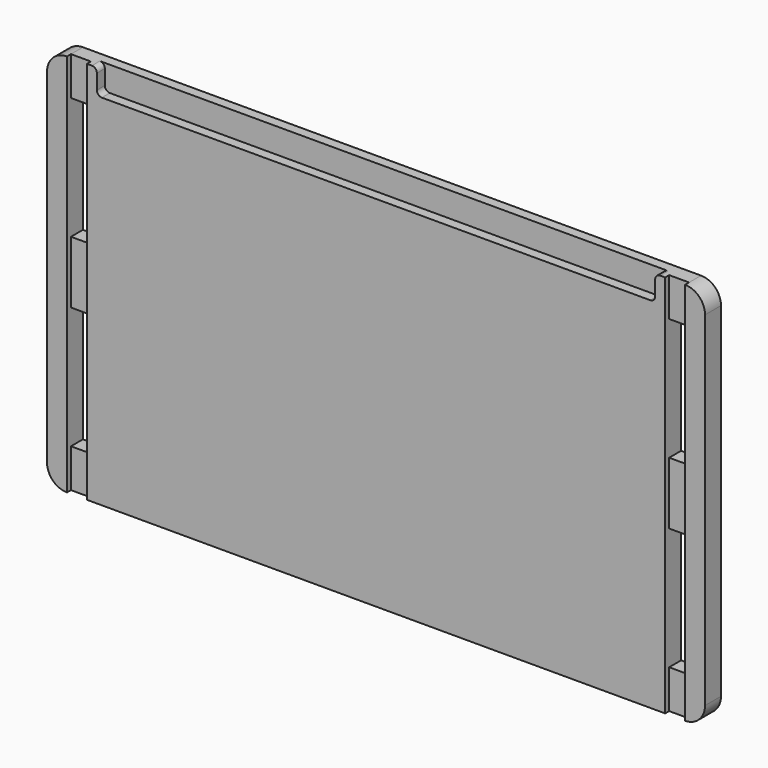
from build123d import *

# Parameters (mm, degrees)
F0_W     = 12.7
F0_H     = 24.60625
F0_H_2   = 39.6875
F1_DEPTH = 12.7
F2_DEPTH = 3.175
F3_DEPTH = 6.35


with BuildPart() as f1:
    # F0 (on Front) → F1 (new body)
    with BuildSketch(Plane.XZ):
        with BuildLine():
            Line((-196.85, 97.63125), (-196.85, 122.2375))
            ThreePointArc((-196.85, 122.2375), (-205.830256, 118.517756), (-209.55, 109.5375))
            Line((-209.55, 109.5375), (-209.55, -109.5375))
            ThreePointArc((-209.55, -109.5375), (-205.830256, -118.517756), (-196.85, -122.2375))
            Line((-196.85, -122.2375), (-196.85, -97.63125))
            Line((-196.85, -97.63125), (-196.85, -19.84375))
            Line((-196.85, -19.84375), (-196.85, 19.84375))
            Line((-196.85, 19.84375), (-196.85, 97.63125))
        make_face()
        with Locations((-190.5, 109.934375)):
            Rectangle(F0_W, F0_H)
        with Locations((-190.5, 0)):
            Rectangle(F0_W, F0_H_2)
        with Locations((-190.5, -109.934375)):
            Rectangle(F0_W, F0_H)
        with BuildLine():
            Line((-180.975, 122.2375), (-184.15, 122.2375))
            Line((-184.15, 122.2375), (-184.15, 97.63125))
            Line((-184.15, 97.63125), (-184.15, 19.84375))
            Line((-184.15, 19.84375), (-184.15, -19.84375))
            Line((-184.15, -19.84375), (-184.15, -97.63125))
            Line((-184.15, -97.63125), (-184.15, -122.2375))
            Line((-184.15, -122.2375), (184.15, -122.2375))
            Line((184.15, -122.2375), (184.15, -97.63125))
            Line((184.15, -97.63125), (184.15, -19.84375))
            Line((184.15, -19.84375), (184.15, 19.84375))
            Line((184.15, 19.84375), (184.15, 97.63125))
            Line((184.15, 97.63125), (184.15, 122.2375))
            Line((184.15, 122.2375), (180.975, 122.2375))
            ThreePointArc((180.975, 122.2375), (178.729936, 121.307564), (177.8, 119.0625))
            Line((177.8, 119.0625), (177.8, 109.5375))
            ThreePointArc((177.8, 109.5375), (176.870064, 107.292436), (174.625, 106.3625))
            Line((174.625, 106.3625), (-174.625, 106.3625))
            ThreePointArc((-174.625, 106.3625), (-176.870064, 107.292436), (-177.8, 109.5375))
            Line((-177.8, 109.5375), (-177.8, 119.0625))
            ThreePointArc((-177.8, 119.0625), (-178.729936, 121.307564), (-180.975, 122.2375))
        make_face()
        with Locations((190.5, -109.934375)):
            Rectangle(F0_W, F0_H)
        with BuildLine():
            ThreePointArc((209.55, 109.5375), (205.830256, 118.517756), (196.85, 122.2375))
            Line((196.85, 122.2375), (196.85, 97.63125))
            Line((196.85, 97.63125), (196.85, 19.84375))
            Line((196.85, 19.84375), (196.85, -19.84375))
            Line((196.85, -19.84375), (196.85, -97.63125))
            Line((196.85, -97.63125), (196.85, -122.2375))
            ThreePointArc((196.85, -122.2375), (205.830256, -118.517756), (209.55, -109.5375))
            Line((209.55, -109.5375), (209.55, 109.5375))
        make_face()
        with Locations((190.5, 0)):
            Rectangle(F0_W, F0_H_2)
        with Locations((190.5, 109.934375)):
            Rectangle(F0_W, F0_H)
        with BuildLine():
            Line((180.975, 122.2375), (-180.975, 122.2375))
            ThreePointArc((-180.975, 122.2375), (-178.729936, 121.307564), (-177.8, 119.0625))
            Line((-177.8, 119.0625), (-177.8, 109.5375))
            ThreePointArc((-177.8, 109.5375), (-176.870064, 107.292436), (-174.625, 106.3625))
            Line((-174.625, 106.3625), (174.625, 106.3625))
            ThreePointArc((174.625, 106.3625), (176.870064, 107.292436), (177.8, 109.5375))
            Line((177.8, 109.5375), (177.8, 119.0625))
            ThreePointArc((177.8, 119.0625), (178.729936, 121.307564), (180.975, 122.2375))
        make_face()
    extrude(amount=-F1_DEPTH)

    # F0 (on Front) → F2 (cut)
    with BuildSketch(Plane.XZ):
        with Locations((-190.5, -109.934375)):
            Rectangle(F0_W, F0_H)
        with Locations((-190.5, 0)):
            Rectangle(F0_W, F0_H_2)
        with Locations((190.5, -109.934375)):
            Rectangle(F0_W, F0_H)
        with Locations((190.5, 0)):
            Rectangle(F0_W, F0_H_2)
        with Locations((190.5, 109.934375)):
            Rectangle(F0_W, F0_H)
        with Locations((-190.5, 109.934375)):
            Rectangle(F0_W, F0_H)
    extrude(amount=-F2_DEPTH, mode=Mode.SUBTRACT)

    # F0 (on Front) → F3 (cut)
    with BuildSketch(Plane.XZ):
        with BuildLine():
            Line((180.975, 122.2375), (-180.975, 122.2375))
            ThreePointArc((-180.975, 122.2375), (-178.729936, 121.307564), (-177.8, 119.0625))
            Line((-177.8, 119.0625), (-177.8, 109.5375))
            ThreePointArc((-177.8, 109.5375), (-176.870064, 107.292436), (-174.625, 106.3625))
            Line((-174.625, 106.3625), (174.625, 106.3625))
            ThreePointArc((174.625, 106.3625), (176.870064, 107.292436), (177.8, 109.5375))
            Line((177.8, 109.5375), (177.8, 119.0625))
            ThreePointArc((177.8, 119.0625), (178.729936, 121.307564), (180.975, 122.2375))
        make_face()
    extrude(amount=-F3_DEPTH, mode=Mode.SUBTRACT)


solid = f1.part
